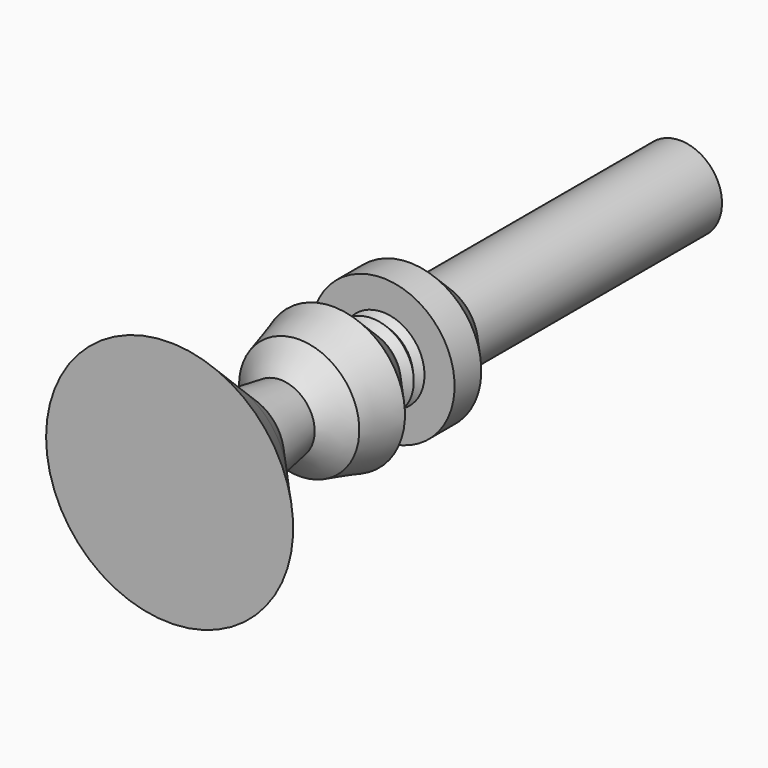
from build123d import *

# Parameters (mm, degrees)
F1_FACE_R = 13.326726
F2_DEPTH  = 97.282


with BuildPart() as f1:
    # F0 (on Top) → F1 (revolve)
    with BuildSketch(Plane.XY):
        Polygon((0, -51.635543), (0, 54.63957), (-13.326726, 54.63957), (-22.921966, 43.978188), (-22.921966, 33.316813), (-13.326726, 33.316813), (-11.20623, 31.408367), (-13.326726, 29.052259), (-10.911718, 26.878753), (-13.326726, 24.19541), (-22.921966, 13.534027), (-19.190485, 0), (-10.911718, -7.450887), (-13.326726, -22.655433), (-22.921966, -33.316815), (-39.408815, -51.635543), align=None)
    revolve(axis=Axis((0, 1.502014, 0), (0, -1, 0)))

    # F1_face (on face) → F2 (join)
    with BuildSketch(Plane(origin=(0, 54.63957, 0), x_dir=(-1, 0, 0), z_dir=(0, 1, 0))):
        Circle(F1_FACE_R)
    extrude(amount=F2_DEPTH)


solid = f1.part
